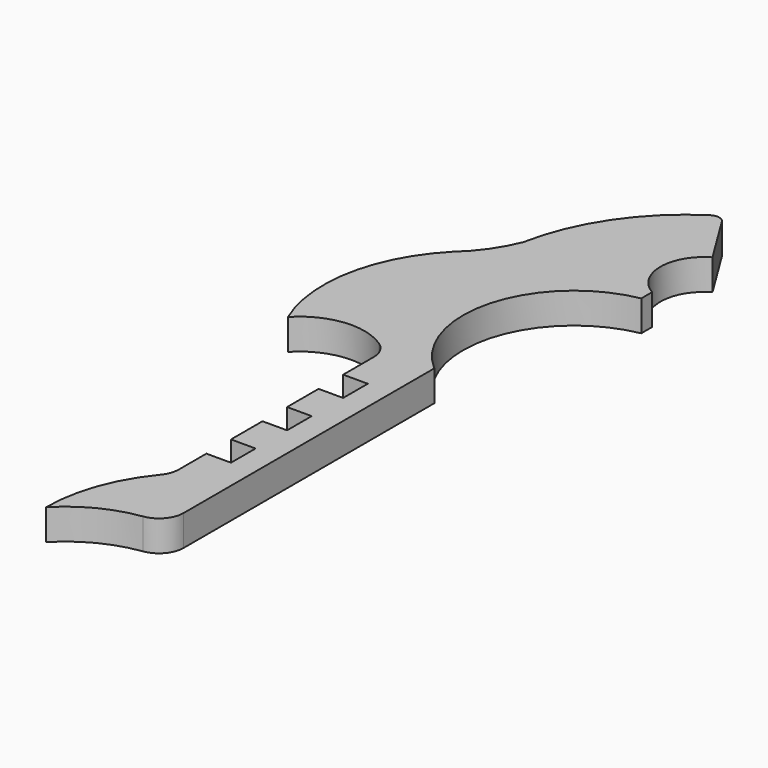
from build123d import *

# Parameters (mm, degrees)
F1_DEPTH = 7.9375


with BuildPart() as f1:
    # F0 (on Top) → F1 (new body)
    with BuildSketch(Plane.XY):
        with BuildLine():
            Line((-17.619983, -65.049847), (-17.619983, 5.430085))
            ThreePointArc((-17.619983, 5.430085), (-26.572156, 34.627824), (-4.117937, 55.327039))
            Line((-4.117937, 55.327039), (-4.117937, 58.825846))
            ThreePointArc((-4.117937, 58.825846), (-9.743514, 68.562866), (-4.117937, 78.299887))
            Line((-4.117937, 78.299887), (-12.348062, 91.604683))
            ThreePointArc((-12.348062, 91.604683), (-13.950191, 92.746419), (-15.887065, 92.401607))
            ThreePointArc((-15.887065, 92.401607), (-30.294112, 78.287935), (-38.020632, 59.658397))
            ThreePointArc((-38.020632, 59.658397), (-41.57491, 53.076355), (-46.541225, 47.48244))
            ThreePointArc((-46.541225, 47.48244), (-57.108316, 27.224813), (-54.656068, 4.508711))
            ThreePointArc((-54.656068, 4.508711), (-44.271237, 9.690554), (-33.010779, 6.880162))
            ThreePointArc((-33.010779, 6.880162), (-30.973328, 4.60062), (-30.237303, 1.633165))
            Line((-30.237303, 1.633165), (-30.237303, -8.191289))
            Line((-30.237303, -8.191289), (-23.887303, -8.191289))
            Line((-23.887303, -8.191289), (-23.887303, -16.128789))
            Line((-23.887303, -16.128789), (-30.237303, -16.128789))
            Line((-30.237303, -16.128789), (-30.237303, -26.288789))
            Line((-30.237303, -26.288789), (-23.887303, -26.288789))
            Line((-23.887303, -26.288789), (-23.887303, -34.226289))
            Line((-23.887303, -34.226289), (-30.237303, -34.226289))
            Line((-30.237303, -34.226289), (-30.237303, -44.386289))
            Line((-30.237303, -44.386289), (-23.887303, -44.386289))
            Line((-23.887303, -44.386289), (-23.887303, -52.323789))
            Line((-23.887303, -52.323789), (-30.237303, -52.323789))
            Line((-30.237303, -52.323789), (-30.237303, -61.220796))
            ThreePointArc((-30.237303, -61.220796), (-30.612686, -63.371716), (-31.694454, -65.26833))
            ThreePointArc((-31.694454, -65.26833), (-38.504761, -77.216229), (-40.857877, -90.765967))
            ThreePointArc((-40.857877, -90.765967), (-32.73282, -84.749382), (-23.089775, -81.711697))
            ThreePointArc((-23.089775, -81.711697), (-19.17875, -79.590322), (-17.619983, -75.422998))
            Line((-17.619983, -75.422998), (-17.619983, -65.049847))
        make_face()
    extrude(amount=F1_DEPTH)


solid = f1.part
